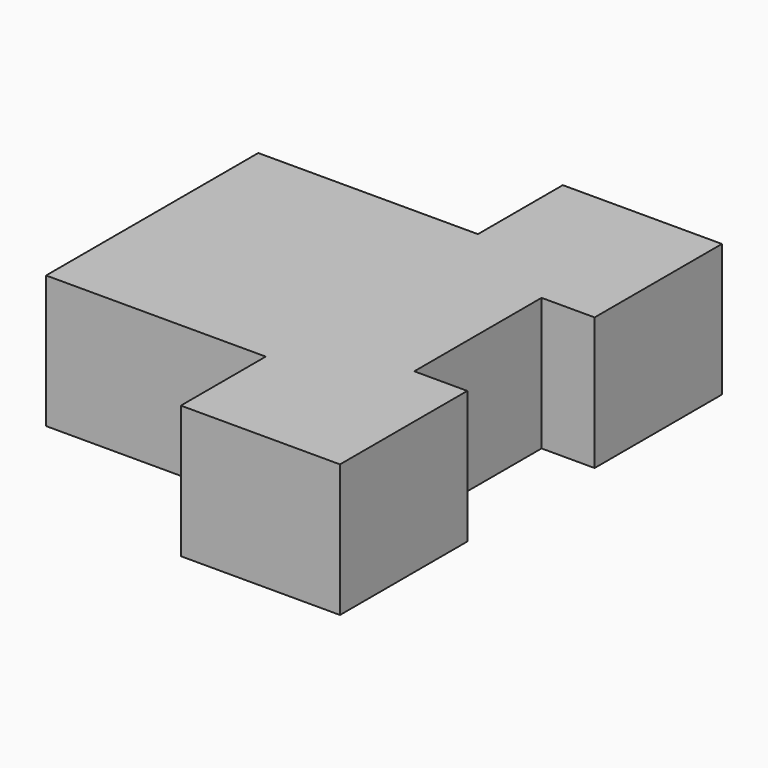
from build123d import *

# Parameters (mm, degrees)
F0_W     = 10.517747
F0_H     = 12.7
F1_DEPTH = 6.35


with BuildPart() as f1:
    # F0 (on Top) → F1 (new body)
    with BuildSketch(Plane.XY):
        with Locations((-6.54676, 6.35)):
            Rectangle(F0_W, F0_H)
        Polygon((-1.287887, 12.7), (-1.287887, 0), (-1.287887, -5.08), (6.332113, -5.08), (6.332113, 2.54), (3.792113, 2.54), (3.792113, 10.16), (6.332113, 10.16), (6.332113, 17.78), (-1.287887, 17.78), align=None)
    extrude(amount=F1_DEPTH)


solid = f1.part
